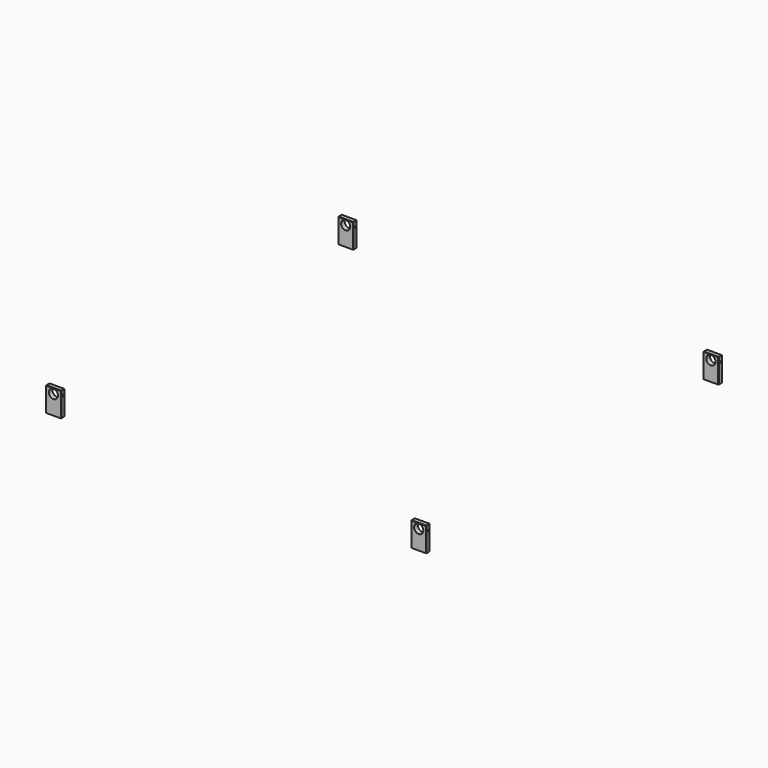
from build123d import *

# Parameters (mm, degrees)
F0_W     = 50
F0_H     = 80
F0_R     = 15
F1_DEPTH = 15
F3_D     = 6
F3_DEPTH = 10
F3_TIP   = 1.8025818571
F5_D     = 6
F5_DEPTH = 20
F5_TIP   = 1.8025818571
F6_SIZE  = 1


with BuildPart() as f1:
    # F0 (on Front) → F1 (new body)
    with BuildSketch(Plane.XZ):
        with Locations((0, -23)):
            Rectangle(F0_W, F0_H)
        Circle(F0_R, mode=Mode.SUBTRACT)
    extrude(amount=F1_DEPTH)

    # F3
    with Locations(Plane(origin=(0, 0, -63), x_dir=(1, 0, 0), z_dir=(0, 0, -1))):
        with Locations((12.5, 7.5), (-12.5, 7.5)):
            Hole(F3_D / 2, depth=F3_DEPTH)
            with Locations((0, 0, -(F3_DEPTH + F3_TIP / 2))):  # 118° drill point
                Cone(0, F3_D / 2, F3_TIP, mode=Mode.SUBTRACT)

    # F5
    with Locations(Plane.YZ.offset(25)):
        with Locations((-7.5, 0)):
            Hole(F5_D / 2, depth=F5_DEPTH)
            with Locations((0, 0, -(F5_DEPTH + F5_TIP / 2))):  # 118° drill point
                Cone(0, F5_D / 2, F5_TIP, mode=Mode.SUBTRACT)

    # F6
    f6_edges = [f1.edges().sort_by_distance(p)[0] for p in [
        (0, -15, 17),
        (0, 0, 17),
        (25, -7.5, 17),
        (-25, -7.5, 17),
        (25, -15, -23),
        (25, 0, -23),
        (-25, -15, -23),
        (-25, 0, -23),
    ]]
    chamfer(f6_edges, length=F6_SIZE)


with BuildPart() as f7_1:
    # F7: copy of F1
    add(f1.part.moved(Location((0, 1200, 0))))


with BuildPart() as f8_1:
    # F8: copy of F1
    add(f1.part.moved(Location((1200, 0, 0))))


with BuildPart() as f9_1:
    # F9: copy of F7_1
    add(f7_1.part.moved(Location((1200, 0, 0))))


with BuildPart() as f9_2:
    # F9: copy of F8_1
    add(f8_1.part.moved(Location((1200, 0, 0))))


solid = Compound([f1.part, f7_1.part, f8_1.part, f9_1.part])
